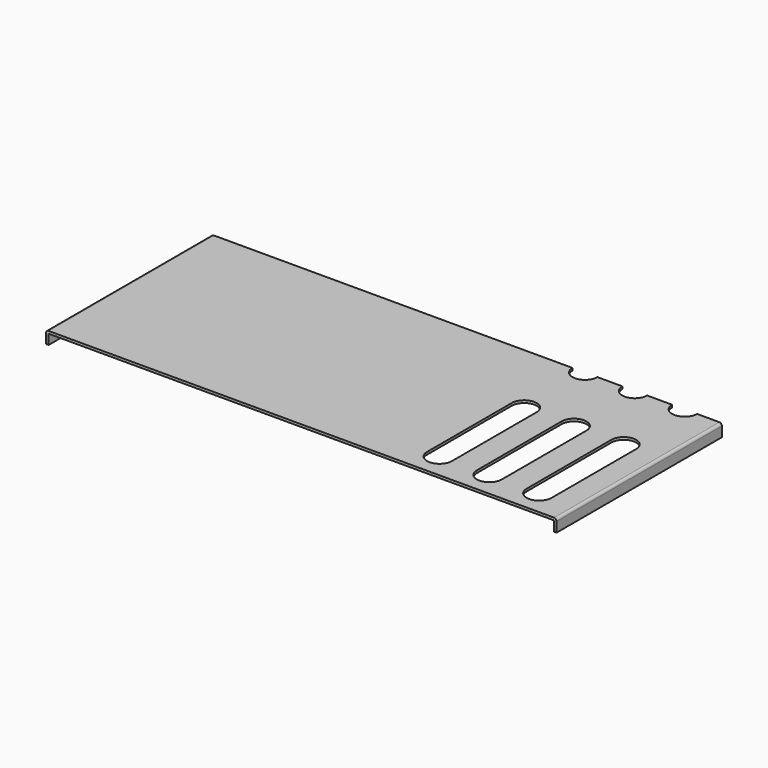
from build123d import *

# Parameters (mm, degrees)
F1_DEPTH = 166
F3_DEPTH = 2
F4_D     = 20
F4_DEPTH = 5


with BuildPart() as f1:
    # F0 (on Front) → F1 (new body)
    with BuildSketch(Plane.XZ):
        with BuildLine():
            Line((0, 8), (0, 0))
            Line((0, 0), (2, 0))
            Line((2, 0), (2, 8))
            Line((2, 8), (408, 8))
            Line((408, 8), (408, 0))
            Line((408, 0), (410, 0))
            Line((410, 0), (410, 8))
            ThreePointArc((410, 8), (409.414214, 9.414214), (408, 10))
            Line((408, 10), (2, 10))
            ThreePointArc((2, 10), (0.585786, 9.414214), (0, 8))
        make_face()
    extrude(amount=-F1_DEPTH)

    # F2 (on face) → F3 (cut, through all)
    with BuildSketch(Plane(origin=(0, 0, 8), x_dir=(1, 0, 0), z_dir=(0, 0, -1))):
        with BuildLine():
            ThreePointArc((310, -20), (300, -10), (290, -20))
            Line((290, -20), (290, -105))
            ThreePointArc((290, -105), (300, -115), (310, -105))
            Line((310, -105), (310, -20))
        make_face()
        with BuildLine():
            ThreePointArc((350, -20), (340, -10), (330, -20))
            Line((330, -20), (330, -105))
            ThreePointArc((330, -105), (340, -115), (350, -105))
            Line((350, -105), (350, -20))
        make_face()
        with BuildLine():
            ThreePointArc((390, -20), (380, -10), (370, -20))
            Line((370, -20), (370, -105))
            ThreePointArc((370, -105), (380, -115), (390, -105))
            Line((390, -105), (390, -20))
        make_face()
    extrude(amount=-F3_DEPTH, mode=Mode.SUBTRACT)

    # F4
    with Locations(Plane(origin=(0, 0, 8), x_dir=(1, 0, 0), z_dir=(0, 0, -1))):
        with Locations((300, -166), (340, -166), (380, -166)):
            Hole(F4_D / 2, depth=F4_DEPTH)


solid = f1.part
